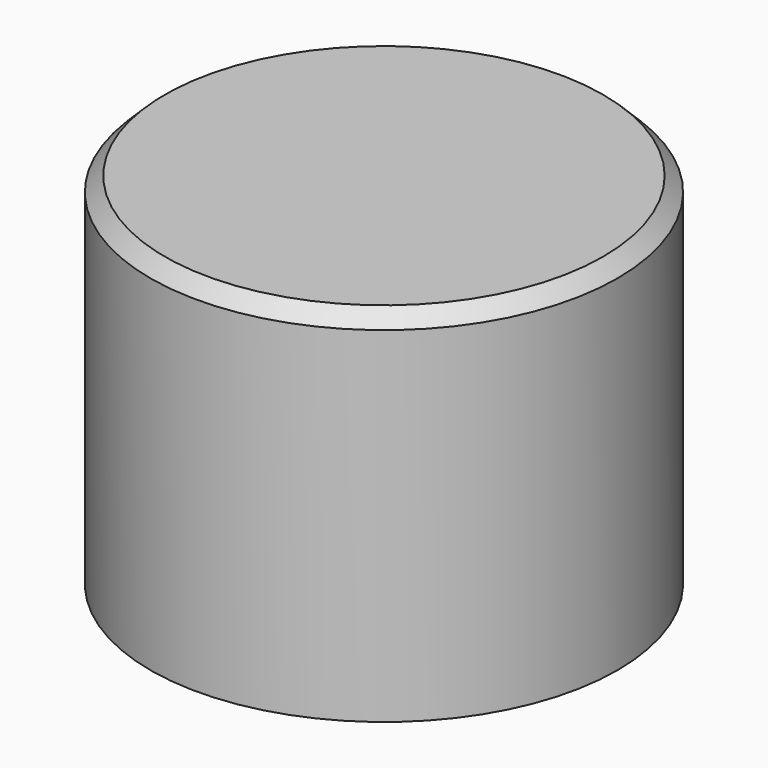
from build123d import *

# Parameters (mm, degrees)
F0_W     = 3.048
F0_H     = 5.842
F2_DEPTH = 3.81
F3_SIZE  = 0.508


with BuildPart() as f1:
    # F0 (on Front) → F1 (revolve)
    with BuildSketch(Plane.XZ):
        Polygon((0, 9.652), (0, 5.842), (3.2385, 5.842), (3.2385, 0), (5.08, 0), (5.08, -3.048), (8.255, -3.048), (8.255, 9.652), align=None)
    revolve(axis=Axis((0, 0, 7.747), (0, 0, -1)))

    # F0 (on Front) → F2 (join, symmetric)
    with BuildSketch(Plane.XZ):
        with Locations((-2.9845, 3.1697918537)):
            Rectangle(F0_W, F0_H)
    extrude(amount=F2_DEPTH, both=True)

    # F3
    f3_edges = [f1.edges().sort_by_distance(p)[0] for p in [
        (-8.255, 0, 9.652),
    ]]
    chamfer(f3_edges, length=F3_SIZE)


solid = f1.part
